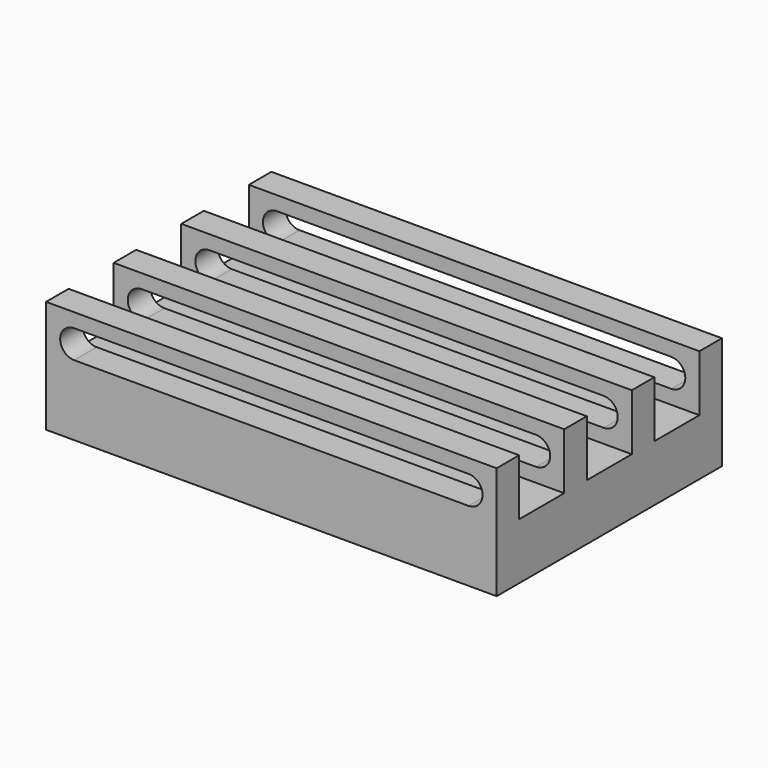
from build123d import *

# Parameters (mm, degrees)
F0_W     = 203.2
F0_H     = 127
F1_DEPTH = 12.7
F2_W     = 203.2
F2_H     = 12.7
F3_DEPTH = 25.4
F5_DEPTH = 127
F6_W     = 203.2
F6_H     = 12.7
F7_DEPTH = 25.4
F9_DEPTH = 50.8


with BuildPart() as f1:
    # F0 (on Top) → F1 (new body, symmetric)
    with BuildSketch(Plane.XY):
        Rectangle(F0_W, F0_H)
    extrude(amount=F1_DEPTH, both=True)

    # F2 (on face) → F3 (join)
    with BuildSketch(Plane.XY.offset(12.7)):
        with Locations((0, 57.15)):
            Rectangle(F2_W, F2_H)
        with Locations((0, -57.15)):
            Rectangle(F2_W, F2_H)
    extrude(amount=F3_DEPTH)

    # F4 (on face) → F5 (cut)
    with BuildSketch(Plane.XZ.offset(63.5)):
        with BuildLine():
            Line((-88.9, 19.05), (88.9, 19.05))
            ThreePointArc((88.9, 19.05), (95.25, 25.4), (88.9, 31.75))
            Line((88.9, 31.75), (-88.9, 31.75))
            ThreePointArc((-88.9, 31.75), (-95.25, 25.4), (-88.9, 19.05))
        make_face()
    extrude(amount=-F5_DEPTH, mode=Mode.SUBTRACT)

    # F6 (on face) → F7 (join)
    with BuildSketch(Plane.XY.offset(12.7)):
        with Locations((0, 19.05)):
            Rectangle(F6_W, F6_H)
        with Locations((0, -19.05)):
            Rectangle(F6_W, F6_H)
    extrude(amount=F7_DEPTH)

    # F8 (on face) → F9 (cut)
    with BuildSketch(Plane(origin=(0, 25.4, 0), x_dir=(-1, 0, 0), z_dir=(0, 1, 0))):
        with BuildLine():
            Line((88.9, 31.75), (-88.9, 31.75))
            ThreePointArc((-88.9, 31.75), (-95.25, 25.4), (-88.9, 19.05))
            Line((-88.9, 19.05), (88.9, 19.05))
            ThreePointArc((88.9, 19.05), (95.25, 25.4), (88.9, 31.75))
        make_face()
    extrude(amount=-F9_DEPTH, mode=Mode.SUBTRACT)


solid = f1.part
